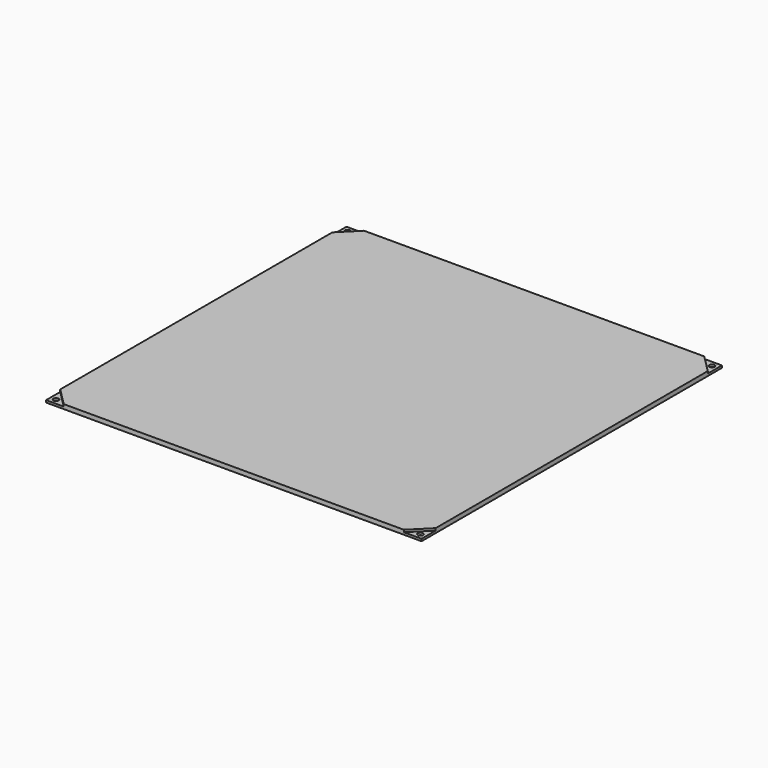
from build123d import *

# Parameters (mm, degrees)
F0_W     = 215.9
F0_H     = 215.9
F1_DEPTH = 2.54
F3_DEPTH = 1.27
F5_D     = 3


with BuildPart() as f1:
    # F0 (on Top) → F1 (new body)
    with BuildSketch(Plane.XY):
        Rectangle(F0_W, F0_H)
    extrude(amount=-F1_DEPTH)

    # F2 (on face) → F3 (cut)
    with BuildSketch(Plane.XY):
        Polygon((-107.95, 107.95), (-107.95, 97.79), (-97.79, 107.95), align=None)
        Polygon((107.95, 97.79), (107.95, 107.95), (97.79, 107.95), align=None)
        Polygon((97.79, -107.95), (107.95, -107.95), (107.95, -97.79), align=None)
        Polygon((-97.79, -107.95), (-107.95, -97.79), (-107.95, -107.95), align=None)
    extrude(amount=-F3_DEPTH, mode=Mode.SUBTRACT)

    # F5 (through all)
    with Locations(Plane.XY.offset(-1.27)):
        with Locations((104.775, -104.775), (-104.775, -104.775), (-104.775, 104.775), (104.775, 104.775)):
            Hole(F5_D / 2)


solid = f1.part
